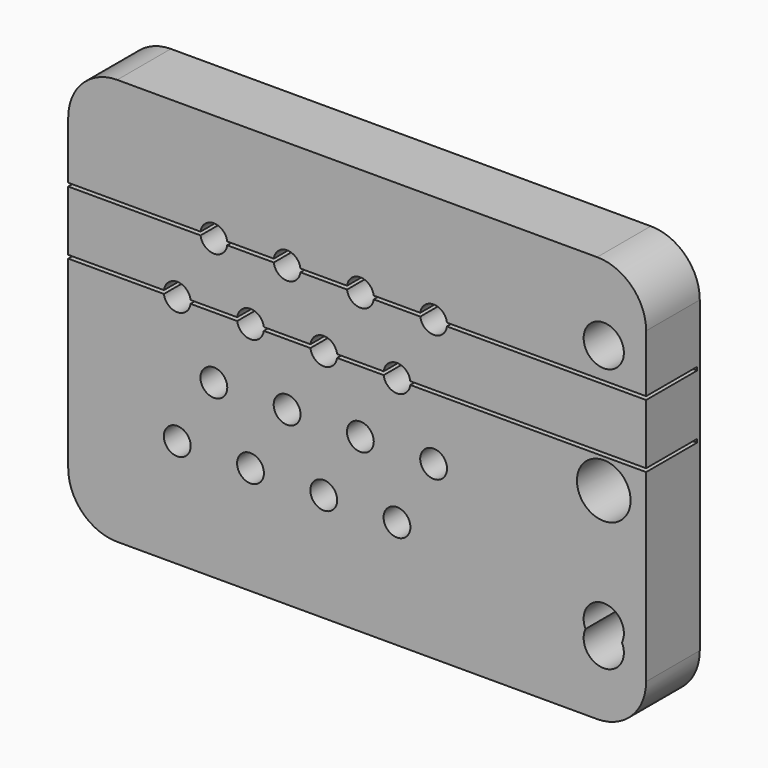
from build123d import *

# Parameters (mm, degrees)
F0_R     = 0.8
F0_R_2   = 1.6
F0_R_3   = 1.2
F1_DEPTH = 4
F2_W     = 34.4678
F2_H     = 0.2
F3_DEPTH = 3.8


with BuildPart() as f1:
    # F0 (on Front) → F1 (new body)
    with BuildSketch(Plane.XZ):
        with BuildLine():
            Line((-76.973173, -27.461596), (-105.598973, -27.461596))
            ThreePointArc((-105.598973, -27.461596), (-107.664432, -28.317137), (-108.519973, -30.382596))
            Line((-108.519973, -30.382596), (-108.519973, -48.797596))
            ThreePointArc((-108.519973, -48.797596), (-107.664432, -50.863055), (-105.598973, -51.718596))
            Line((-105.598973, -51.718596), (-76.973173, -51.718596))
            ThreePointArc((-76.973173, -51.718596), (-74.907714, -50.863055), (-74.052173, -48.797596))
            Line((-74.052173, -48.797596), (-74.052173, -30.382596))
            ThreePointArc((-74.052173, -30.382596), (-74.907714, -28.317137), (-76.973173, -27.461596))
        make_face()
        with Locations((-102.017573, -45.266996)):
            Circle(F0_R, mode=Mode.SUBTRACT)
        with Locations((-97.648773, -45.266996)):
            Circle(F0_R, mode=Mode.SUBTRACT)
        with Locations((-93.279973, -45.266996)):
            Circle(F0_R, mode=Mode.SUBTRACT)
        with Locations((-99.833173, -41.482396)):
            Circle(F0_R, mode=Mode.SUBTRACT)
        with Locations((-95.464373, -41.482396)):
            Circle(F0_R, mode=Mode.SUBTRACT)
        with BuildLine():
            ThreePointArc((-77.666642, -47.210096), (-76.839663, -45.530643), (-75.379473, -46.702096))
            ThreePointArc((-75.379473, -46.702096), (-75.40802, -46.962285), (-75.492304, -47.210096))
            ThreePointArc((-75.492304, -47.210096), (-75.40802, -47.457906), (-75.379473, -47.718096))
            ThreePointArc((-75.379473, -47.718096), (-76.839663, -48.889548), (-77.666642, -47.210096))
        make_face(mode=Mode.SUBTRACT)
        with Locations((-88.911173, -45.266996)):
            Circle(F0_R, mode=Mode.SUBTRACT)
        with Locations((-91.095573, -41.482396)):
            Circle(F0_R, mode=Mode.SUBTRACT)
        with Locations((-86.726773, -41.482396)):
            Circle(F0_R, mode=Mode.SUBTRACT)
        with Locations((-76.579473, -39.590096)):
            Circle(F0_R_2, mode=Mode.SUBTRACT)
        with Locations((-102.017573, -37.697796)):
            Circle(F0_R, mode=Mode.SUBTRACT)
        with Locations((-97.648773, -37.697796)):
            Circle(F0_R, mode=Mode.SUBTRACT)
        with Locations((-93.279973, -37.697796)):
            Circle(F0_R, mode=Mode.SUBTRACT)
        with Locations((-99.833173, -33.913196)):
            Circle(F0_R, mode=Mode.SUBTRACT)
        with Locations((-95.464373, -33.913196)):
            Circle(F0_R, mode=Mode.SUBTRACT)
        with Locations((-88.911173, -37.697796)):
            Circle(F0_R, mode=Mode.SUBTRACT)
        with Locations((-91.095573, -33.913196)):
            Circle(F0_R, mode=Mode.SUBTRACT)
        with Locations((-86.726773, -33.913196)):
            Circle(F0_R, mode=Mode.SUBTRACT)
        with Locations((-76.579473, -31.970096)):
            Circle(F0_R_3, mode=Mode.SUBTRACT)
    extrude(amount=F1_DEPTH)

    # F2 (on face) → F3 (cut)
    with BuildSketch(Plane.XZ.offset(4)):
        with Locations((-91.286073, -33.913196)):
            Rectangle(F2_W, F2_H)
        with Locations((-91.286073, -37.697796)):
            Rectangle(F2_W, F2_H)
    extrude(amount=-F3_DEPTH, mode=Mode.SUBTRACT)


solid = f1.part
